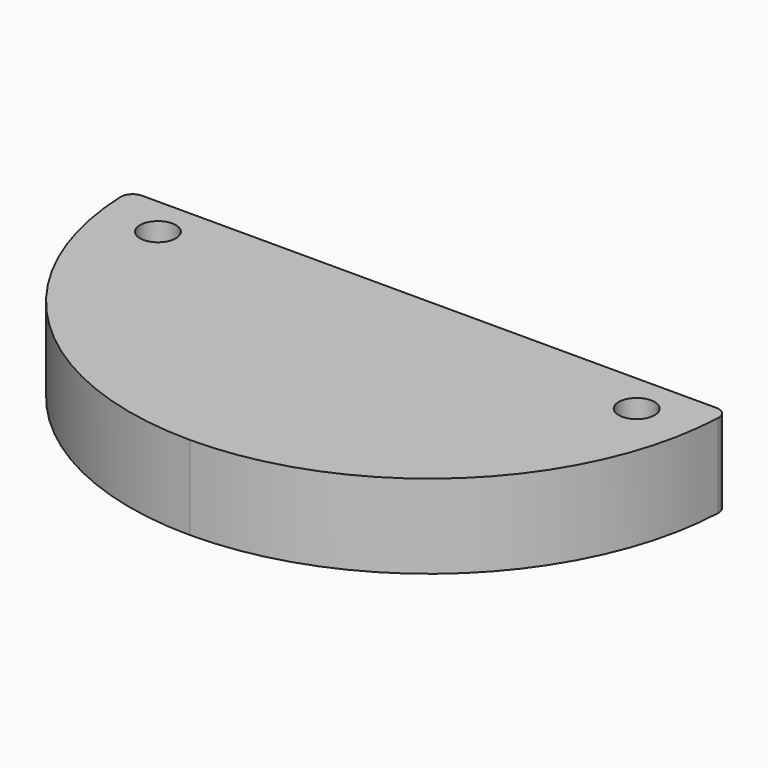
from build123d import *

# Parameters (mm, degrees)
F0_R     = 1.5
F1_DEPTH = 7
F2_R     = 1


with BuildPart() as f1:
    # F0 (on Top) → F1 (new body)
    with BuildSketch(Plane.XY):
        with BuildLine():
            Line((25, 0), (0, 0))
            Line((0, 0), (0, -25))
            ThreePointArc((0, -25), (17.67767, -17.67767), (25, 0))
        make_face()
        with Locations((20, -3.328912)):
            Circle(F0_R, mode=Mode.SUBTRACT)
        with BuildLine():
            Line((0, -25), (0, 0))
            Line((0, 0), (-25, 0))
            ThreePointArc((-25, 0), (-17.67767, -17.67767), (0, -25))
        make_face()
        with Locations((-20, -3.328912)):
            Circle(F0_R, mode=Mode.SUBTRACT)
    extrude(amount=F1_DEPTH)

    # F2
    f2_edges = [f1.edges().sort_by_distance(p)[0] for p in [
        (25, 0, 3.5),
        (-25, 0, 3.5),
    ]]
    fillet(f2_edges, radius=F2_R)


solid = f1.part
